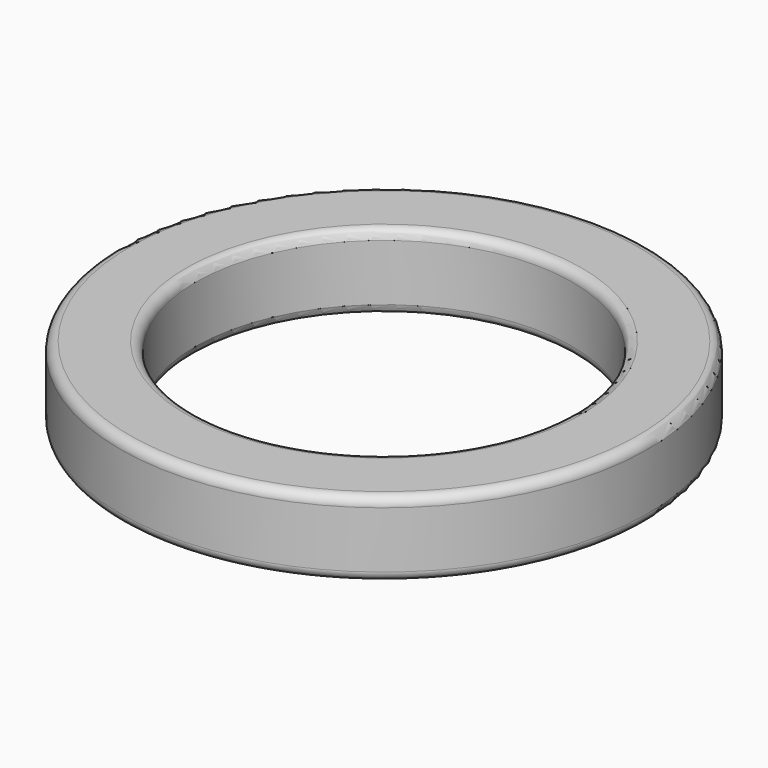
from build123d import *

# Parameters (mm, degrees)
F1_W = 2
F1_H = 2
F3_R = 0.25


with BuildPart() as f2:
    # F1 (on Right) → F2 (revolve)
    with BuildSketch(Plane.YZ):
        with Locations((6, 0)):
            Rectangle(F1_W, F1_H)
    revolve(axis=Axis((0, 0, 8.067548), (0, 0, 1)))

    # F3
    f3_edges = [f2.edges().sort_by_distance(p)[0] for p in [
        (0, -7, 1),
        (0, -5, 1),
        (0, -7, -1),
        (0, -5, -1),
    ]]
    fillet(f3_edges, radius=F3_R)


solid = f2.part
